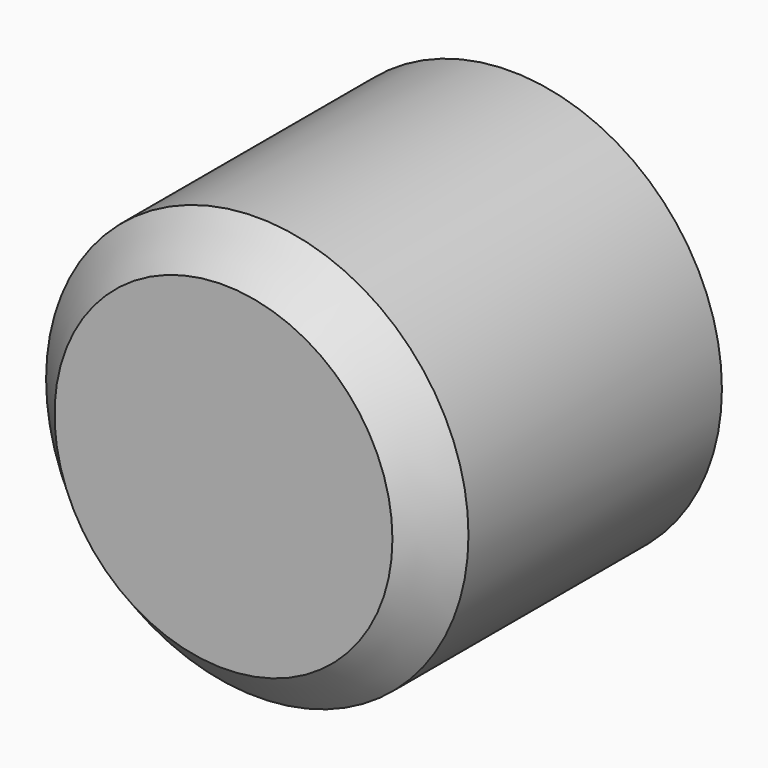
from build123d import *

# Parameters (mm, degrees)
F0_R     = 12.7
F1_DEPTH = 21.59
F2_SIZE  = 2.54
F4_D     = 4.0386
F4_DEPTH = 11.90625
F4_TIP   = 1.213317848


with BuildPart() as f1:
    # F0 (on Front) → F1 (new body)
    with BuildSketch(Plane.XZ):
        Circle(F0_R)
    extrude(amount=F1_DEPTH)

    # F2
    f2_edges = [f1.edges().sort_by_distance(p)[0] for p in [
        (-12.7, -21.59, 0),
    ]]
    chamfer(f2_edges, length=F2_SIZE)

    # F4
    with Locations(Plane(origin=(0, 0, 0), x_dir=(-1, 0, 0), z_dir=(0, 1, 0))):
        with Locations((0, 0)):
            Hole(F4_D / 2, depth=F4_DEPTH)
            with Locations((0, 0, -(F4_DEPTH + F4_TIP / 2))):  # 118° drill point
                Cone(0, F4_D / 2, F4_TIP, mode=Mode.SUBTRACT)


solid = f1.part
